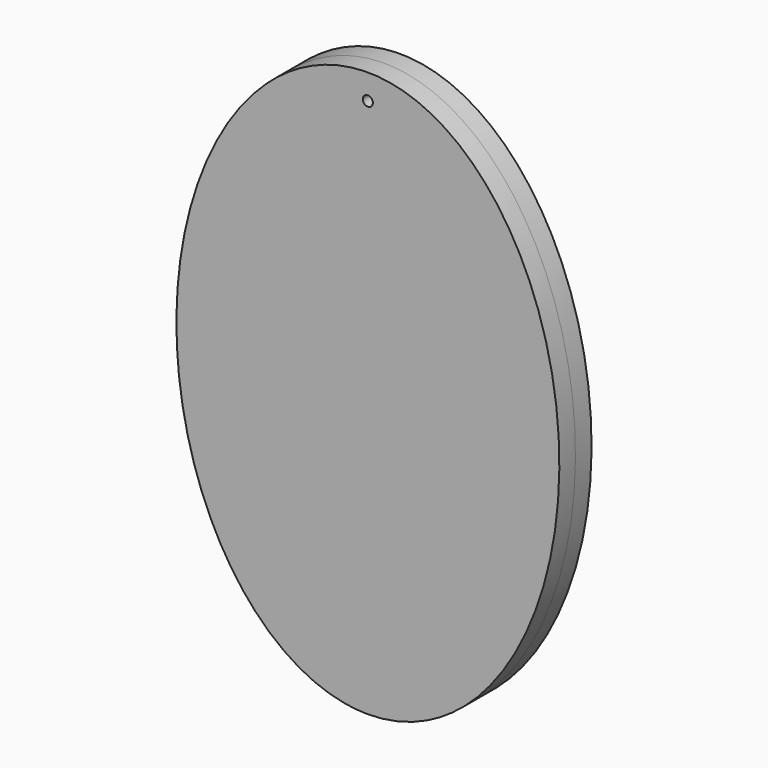
from build123d import *

# Parameters (mm, degrees)
F1_DEPTH = 2
F3_D     = 1


with BuildPart() as f1:
    # F0 (on Front) → F1 (new body, symmetric)
    with BuildSketch(Plane.XZ):
        with BuildLine():
            add(Edge.make_bspline(
                [(0, -28.050072), (32.924203, -28.050072), (16.462101, 14.025036), (0, 56.100145), (-16.462101, 14.025036), (-32.924203, -28.050072), (0, -28.050072)],
                knots=[0, 0, 0, 2.094395, 2.094395, 4.18879, 4.18879, 6.283185, 6.283185, 6.283185], degree=2, weights=[1, 0.5, 1, 0.5, 1, 0.5, 1]))
        make_face()
    extrude(amount=F1_DEPTH, both=True)

    # F3 (through all)
    with Locations(Plane.XZ.offset(2)):
        with Locations((0, 25.547372)):
            Hole(F3_D / 2)


with BuildPart() as f4_1:
    # F4: copy of F1
    add(f1.part)


solid = f1.part
